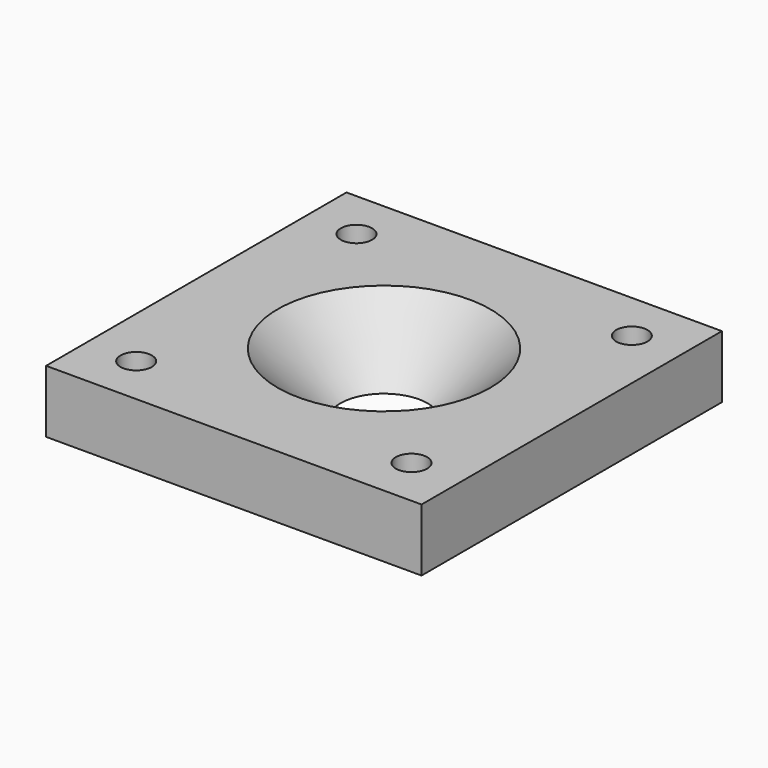
from build123d import *

# Parameters (mm, degrees)
F0_W     = 38.1
F0_H     = 38.1
F1_DEPTH = 6.35
F2_R     = 4.445
F3_DEPTH = 25.4
F4_DEPTH = 6.35
F4_TAPER = -45
F5_R     = 1.5875
F6_DEPTH = 25.4


with BuildPart() as f1:
    # F0 (on Top) → F1 (new body)
    with BuildSketch(Plane.XY):
        Rectangle(F0_W, F0_H)
    extrude(amount=F1_DEPTH)

    # F2 (on Top) → F3 (cut)
    with BuildSketch(Plane.XY):
        Circle(F2_R)
    extrude(amount=F3_DEPTH, mode=Mode.SUBTRACT)

    # F2 (on Top) → F4 (cut)
    with BuildSketch(Plane.XY):
        Circle(F2_R)
    extrude(amount=F4_DEPTH, taper=F4_TAPER, mode=Mode.SUBTRACT)

    # F5 (on Top) → F6 (cut)
    with BuildSketch(Plane.XY):
        with Locations((13.97, -13.97)):
            Circle(F5_R)
        with Locations((13.97, 13.97)):
            Circle(F5_R)
        with Locations((-13.97, -13.97)):
            Circle(F5_R)
        with Locations((-13.97, 13.97)):
            Circle(F5_R)
    extrude(amount=F6_DEPTH, mode=Mode.SUBTRACT)


solid = f1.part
